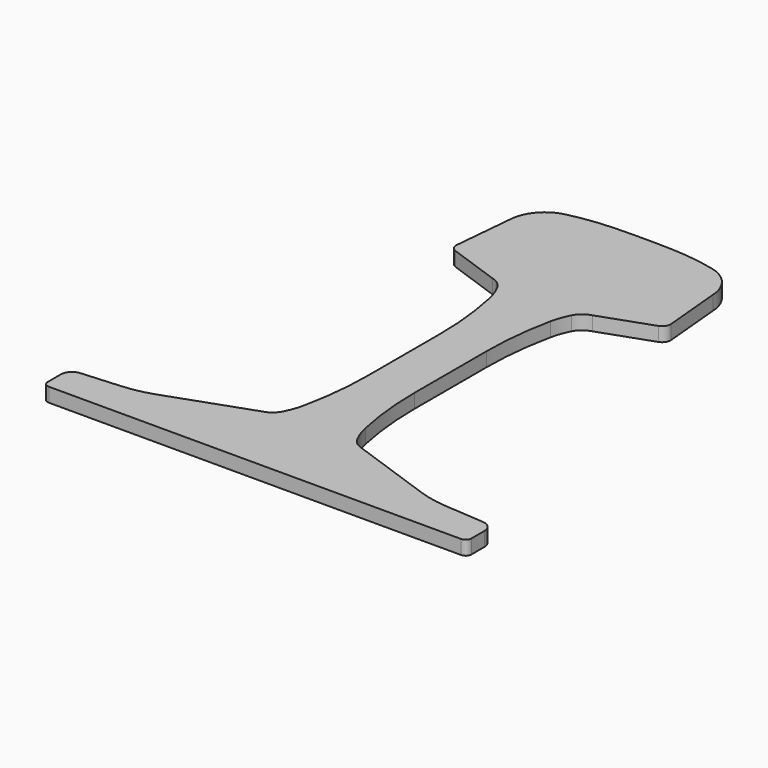
from build123d import *

# Parameters (mm, degrees)
F1_DEPTH = 5


with BuildPart() as f1:
    # F0 (on Top) → F1 (new body)
    with BuildSketch(Plane.XY):
        with BuildLine():
            add(Edge.make_bspline(
                [(42.347362, 79.562907), (42.134291, 81.886016), (41.708148, 86.532233), (41.068935, 93.501559), (40.642792, 98.147776), (40.429721, 100.470884)],
                knots=[0, 0, 0, 0, 6.998578, 13.997156, 20.995734, 20.995734, 20.995734, 20.995734], degree=3))
            ThreePointArc((40.429721, 100.470884), (37.441749, 108.15842), (30.429721, 112.50096))
            ThreePointArc((30.429721, 112.50096), (22.730822, 113.923703), (14.929721, 114.587078))
            ThreePointArc((14.929721, 114.587078), (4.429721, 114.770884), (-6.070279, 114.587078))
            ThreePointArc((-6.070279, 114.587078), (-13.87138, 113.923703), (-21.570279, 112.50096))
            ThreePointArc((-21.570279, 112.50096), (-28.582306, 108.15842), (-31.570279, 100.470884))
            add(Edge.make_bspline(
                [(-31.570279, 100.470884), (-31.78335, 98.147776), (-32.209492, 93.501559), (-32.848706, 86.532233), (-33.274848, 81.886016), (-33.487919, 79.562907)],
                knots=[0, 0, 0, 0, 6.998578, 13.997156, 20.995734, 20.995734, 20.995734, 20.995734], degree=3))
            ThreePointArc((-33.487919, 79.562907), (-33.026295, 77.670215), (-31.499503, 76.460138))
            add(Edge.make_bspline(
                [(-31.499503, 76.460138), (-29.46591, 75.741927), (-25.398724, 74.305504), (-19.297945, 72.15087), (-15.230758, 70.714447), (-13.197165, 69.996235)],
                knots=[0, 0, 0, 0, 6.470082, 12.940164, 19.410245, 19.410245, 19.410245, 19.410245], degree=3))
            ThreePointArc((-13.197165, 69.996235), (-10.571416, 68.677315), (-8.718314, 66.396937))
            ThreePointArc((-8.718314, 66.396937), (-7.368697, 63.253483), (-6.440564, 59.960864))
            ThreePointArc((-6.440564, 59.960864), (-4.477148, 47.55951), (-3.820279, 35.020884))
            add(Edge.make_bspline(
                [(-3.820279, 35.020884), (-3.820279, 31.465329), (-3.820279, 24.354218), (-3.820279, 13.687551), (-3.820279, 6.57644), (-3.820279, 3.020884)],
                knots=[0, 0, 0, 0, 10.666667, 21.333333, 32, 32, 32, 32], degree=3))
            ThreePointArc((-3.820279, 3.020884), (-4.477148, -9.517741), (-6.440564, -21.919096))
            ThreePointArc((-6.440564, -21.919096), (-7.368697, -25.211715), (-8.718314, -28.355168))
            ThreePointArc((-8.718314, -28.355168), (-10.571416, -30.635546), (-13.197165, -31.954467))
            add(Edge.make_bspline(
                [(-13.197165, -31.954467), (-16.443947, -33.101144), (-22.93751, -35.394499), (-32.677854, -38.834532), (-39.171417, -41.127887), (-42.418199, -42.274564)],
                knots=[0, 0, 0, 0, 10.329963, 20.659926, 30.989889, 30.989889, 30.989889, 30.989889], degree=3))
            ThreePointArc((-42.418199, -42.274564), (-47.569185, -43.714534), (-52.866234, -44.454425))
            add(Edge.make_bspline(
                [(-52.866234, -44.454425), (-54.420823, -44.566355), (-57.530001, -44.790216), (-62.193768, -45.126007), (-65.302946, -45.349868), (-66.857535, -45.461798)],
                knots=[0, 0, 0, 0, 4.67584, 9.35168, 14.027519, 14.027519, 14.027519, 14.027519], degree=3))
            ThreePointArc((-66.857535, -45.461798), (-69.498506, -46.726496), (-70.570279, -49.45147))
            add(Edge.make_bspline(
                [(-70.570279, -49.45147), (-70.570279, -50.093431), (-70.570279, -51.377352), (-70.570279, -53.303234), (-70.570279, -54.587155), (-70.570279, -55.229116)],
                knots=[0, 0, 0, 0, 1.925882, 3.851764, 5.777645, 5.777645, 5.777645, 5.777645], degree=3))
            ThreePointArc((-70.570279, -55.229116), (-69.984492, -56.643329), (-68.570279, -57.229116))
            add(Edge.make_bspline(
                [(-68.570279, -57.229116), (-60.459168, -57.229116), (-44.236945, -57.229116), (-19.903612, -57.229116), (-3.68139, -57.229116), (4.429721, -57.229116)],
                knots=[0, 0, 0, 0, 24.333333, 48.666667, 73, 73, 73, 73], degree=3))
            add(Edge.make_bspline(
                [(4.429721, -57.229116), (12.540832, -57.229116), (28.763055, -57.229116), (53.096388, -57.229116), (69.31861, -57.229116), (77.429721, -57.229116)],
                knots=[0, 0, 0, 0, 24.333333, 48.666667, 73, 73, 73, 73], degree=3))
            ThreePointArc((77.429721, -57.229116), (78.843935, -56.643329), (79.429721, -55.229116))
            add(Edge.make_bspline(
                [(79.429721, -55.229116), (79.429721, -54.587155), (79.429721, -53.303234), (79.429721, -51.377352), (79.429721, -50.093431), (79.429721, -49.45147)],
                knots=[0, 0, 0, 0, 1.925882, 3.851764, 5.777645, 5.777645, 5.777645, 5.777645], degree=3))
            ThreePointArc((79.429721, -49.45147), (78.357948, -46.726496), (75.716978, -45.461798))
            add(Edge.make_bspline(
                [(75.716978, -45.461798), (74.162389, -45.349868), (71.053211, -45.126007), (66.389444, -44.790216), (63.280266, -44.566355), (61.725677, -44.454425)],
                knots=[0, 0, 0, 0, 4.67584, 9.35168, 14.027519, 14.027519, 14.027519, 14.027519], degree=3))
            ThreePointArc((61.725677, -44.454425), (56.428627, -43.714534), (51.277641, -42.274564))
            add(Edge.make_bspline(
                [(51.277641, -42.274564), (48.03086, -41.127887), (41.537297, -38.834532), (31.796952, -35.394499), (25.303389, -33.101144), (22.056608, -31.954467)],
                knots=[0, 0, 0, 0, 10.329963, 20.659926, 30.989889, 30.989889, 30.989889, 30.989889], degree=3))
            ThreePointArc((22.056608, -31.954467), (19.430859, -30.635546), (17.577757, -28.355168))
            ThreePointArc((17.577757, -28.355168), (16.228139, -25.211715), (15.300007, -21.919096))
            ThreePointArc((15.300007, -21.919096), (13.33659, -9.517741), (12.679721, 3.020884))
            add(Edge.make_bspline(
                [(12.679721, 3.020884), (12.679721, 6.57644), (12.679721, 13.687551), (12.679721, 24.354218), (12.679721, 31.465329), (12.679721, 35.020884)],
                knots=[0, 0, 0, 0, 10.666667, 21.333333, 32, 32, 32, 32], degree=3))
            ThreePointArc((12.679721, 35.020884), (13.33659, 47.55951), (15.300007, 59.960864))
            ThreePointArc((15.300007, 59.960864), (16.228139, 63.253483), (17.577757, 66.396937))
            ThreePointArc((17.577757, 66.396937), (19.430859, 68.677315), (22.056608, 69.996235))
            add(Edge.make_bspline(
                [(22.056608, 69.996235), (24.090201, 70.714447), (28.157387, 72.15087), (34.258167, 74.305504), (38.325353, 75.741927), (40.358946, 76.460138)],
                knots=[0, 0, 0, 0, 6.470082, 12.940164, 19.410245, 19.410245, 19.410245, 19.410245], degree=3))
            ThreePointArc((40.358946, 76.460138), (41.885738, 77.670215), (42.347362, 79.562907))
        make_face()
    extrude(amount=F1_DEPTH)


solid = f1.part
